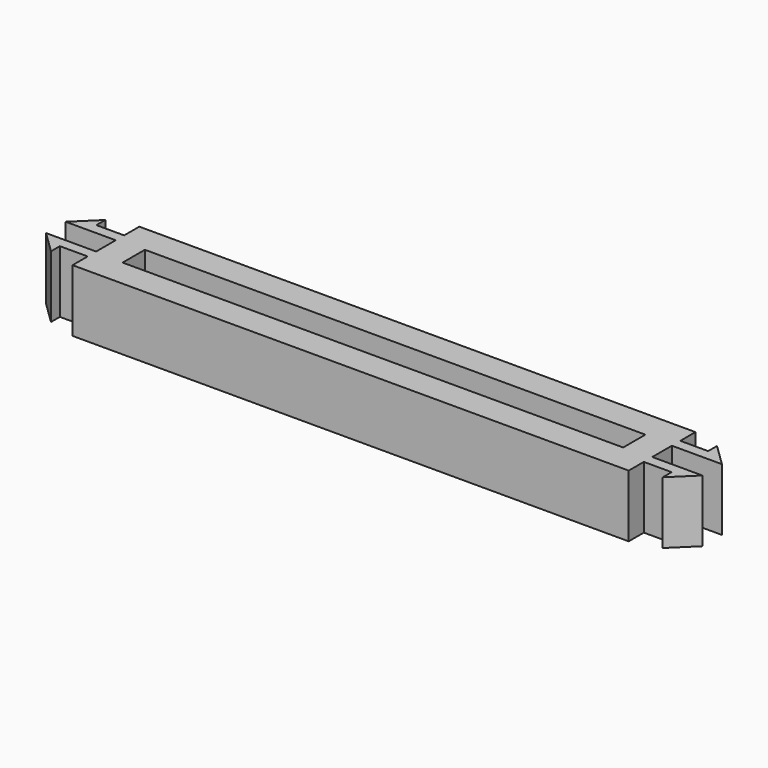
from build123d import *

# Parameters (mm, degrees)
F1_DEPTH = 5.6
F3_DEPTH = 2.5
F5_DEPTH = 2.5


with BuildPart() as f1:
    # F0 (on Top) → F1 (new body)
    with BuildSketch(Plane.XY):
        Polygon((25, 3.75), (0, 3.75), (-25, 3.75), (-25, 2.05), (-27.5, 2.05), (-27.5, 3.05), (-29.5, 1.1), (-25, 1.1), (-25, -1.1), (-29.5, -1.1), (-27.5, -3.05), (-27.5, -2.05), (-25, -2.05), (-25, -3.75), (0, -3.75), (25, -3.75), (25, -2.05), (27.5, -2.05), (27.5, -3.05), (29.5, -1.1), (25, -1.1), (25, 1.1), (29.5, 1.1), (27.5, 3.05), (27.5, 2.05), (25, 2.05), align=None)
    extrude(amount=F1_DEPTH)

    # F2 (on face) → F3 (cut)
    with BuildSketch(Plane.XY.offset(5.6)):
        Polygon((22.5, -1.25), (22.5, 1), (22.5, 1.25), (-22.5, 1.25), (-22.5, -1), (-22.5, -1.25), align=None)
    extrude(amount=-F3_DEPTH, mode=Mode.SUBTRACT)

    # F4 (on face) → F5 (cut)
    with BuildSketch(Plane(origin=(0, 0, 0), x_dir=(1, 0, 0), z_dir=(0, 0, -1))):
        Polygon((-22.5, 1.25), (-22.5, 0.4), (-22.5, -1.25), (22.5, -1.25), (22.5, -0.4), (22.5, 1.25), align=None)
    extrude(amount=-F5_DEPTH, mode=Mode.SUBTRACT)


solid = f1.part
